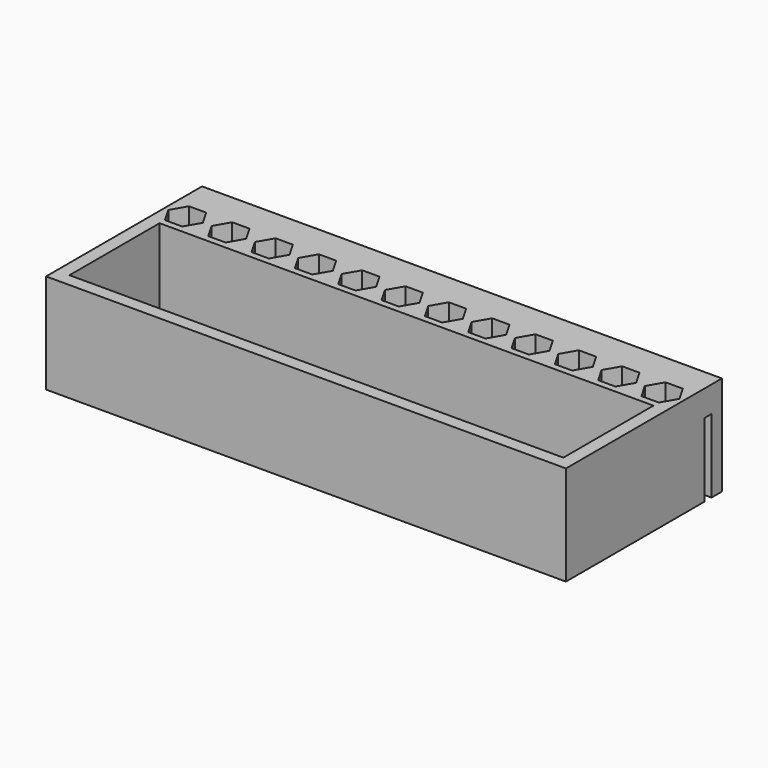
from build123d import *

# Parameters (mm, degrees)
F0_W     = 120
F0_H     = 45
F1_DEPTH = 3
F2_W     = 120
F2_H     = 45
F2_W_2   = 114
F2_H_2   = 26
F3_DEPTH = 20
F5_W     = 120
F5_H     = 2
F6_DEPTH = 17
F7_DEPTH = 13


with BuildPart() as f1:
    # F0 (on Top) → F1 (new body)
    with BuildSketch(Plane.XY):
        Rectangle(F0_W, F0_H)
    extrude(amount=F1_DEPTH)

    # F2 (on face) → F3 (join)
    with BuildSketch(Plane.XY.offset(3)):
        Rectangle(F2_W, F2_H)
        with Locations((0, -6.5)):
            Rectangle(F2_W_2, F2_H_2, mode=Mode.SUBTRACT)
    extrude(amount=F3_DEPTH)

    # F5 (on face) → F6 (cut)
    with BuildSketch(Plane(origin=(0, 0, 0), x_dir=(1, 0, 0), z_dir=(0, 0, -1))):
        with Locations((0, -18.5)):
            Rectangle(F5_W, F5_H)
    extrude(amount=-F6_DEPTH, mode=Mode.SUBTRACT)

    # F4 (on face) → F7 (cut)
    with BuildSketch(Plane.XY.offset(23)):
        Polygon((-53, 8.035898), (-51, 11.5), (-53, 14.964102), (-57, 14.964102), (-59, 11.5), (-57, 8.035898), align=None)
        Polygon((-43, 8.035898), (-41, 11.5), (-43, 14.964102), (-47, 14.964102), (-49, 11.5), (-47, 8.035898), align=None)
        Polygon((-33, 8.035898), (-31, 11.5), (-33, 14.964102), (-37, 14.964102), (-39, 11.5), (-37, 8.035898), align=None)
        Polygon((-23, 8.035898), (-21, 11.5), (-23, 14.964102), (-27, 14.964102), (-29, 11.5), (-27, 8.035898), align=None)
        Polygon((-13, 8.035898), (-11, 11.5), (-13, 14.964102), (-17, 14.964102), (-19, 11.5), (-17, 8.035898), align=None)
        Polygon((-3, 8.035898), (-1, 11.5), (-3, 14.964102), (-7, 14.964102), (-9, 11.5), (-7, 8.035898), align=None)
        Polygon((3, 8.035898), (7, 8.035898), (9, 11.5), (7, 14.964102), (3, 14.964102), (1, 11.5), align=None)
        Polygon((11, 11.5), (13, 8.035898), (17, 8.035898), (19, 11.5), (17, 14.964102), (13, 14.964102), align=None)
        Polygon((29, 11.5), (27, 14.964102), (23, 14.964102), (21, 11.5), (23, 8.035898), (27, 8.035898), align=None)
        Polygon((33, 8.035898), (37, 8.035898), (39, 11.5), (37, 14.964102), (33, 14.964102), (31, 11.5), align=None)
        Polygon((43, 8.035898), (47, 8.035898), (49, 11.5), (47, 14.964102), (43, 14.964102), (41, 11.5), align=None)
        Polygon((57, 8.035898), (59, 11.5), (57, 14.964102), (53, 14.964102), (51, 11.5), (53, 8.035898), align=None)
    extrude(amount=-F7_DEPTH, mode=Mode.SUBTRACT)


solid = f1.part
